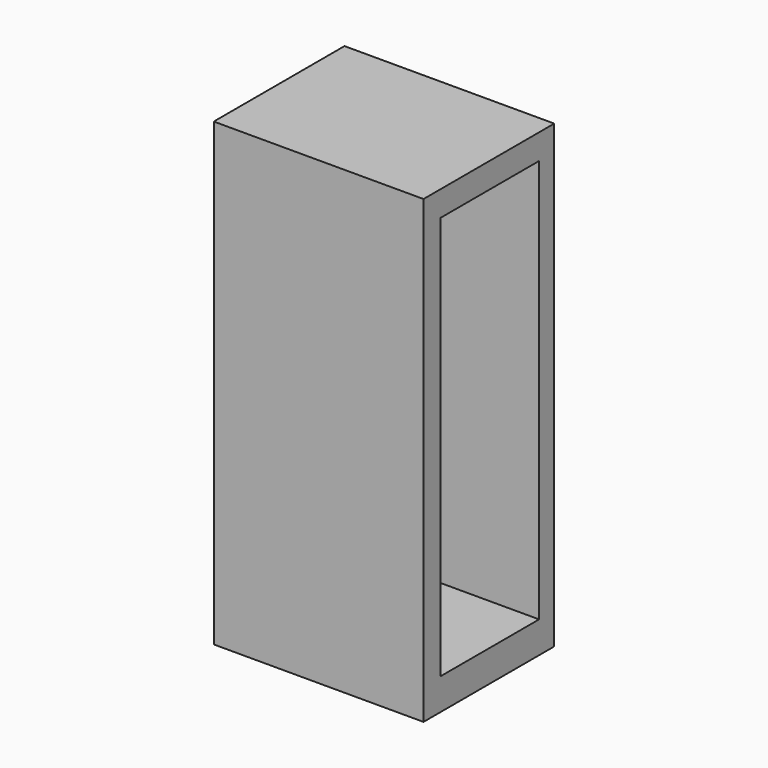
from build123d import *

# Parameters (mm, degrees)
F0_W      = 108.803798
F0_H      = 71.555654
F1_DEPTH  = 25.4
F1_FACE_W = 25.4
F1_FACE_H = 71.555654
F2_W      = 19.114182
F2_H      = 62.73372
F3_DEPTH  = 76.2


with BuildPart() as f1:
    # F0 (on Front) → F1 (new body)
    with BuildSketch(Plane.XZ):
        with Locations((2.450535, 20.216922)):
            Rectangle(F0_W, F0_H)
    extrude(amount=F1_DEPTH)

    # F1_face (on face) + F2 (on Right) → F3 (cut)
    with BuildSketch(Plane(origin=(56.852434, -12.7, 20.216922), x_dir=(0, 1, 0), z_dir=(1, 0, 0))):
        Rectangle(F1_FACE_W, F1_FACE_H)
    with BuildSketch(Plane.YZ):
        with Locations((-12.497734, 20.707028)):
            Rectangle(F2_W, F2_H)
    extrude(amount=-F3_DEPTH, mode=Mode.SUBTRACT)


solid = f1.part
